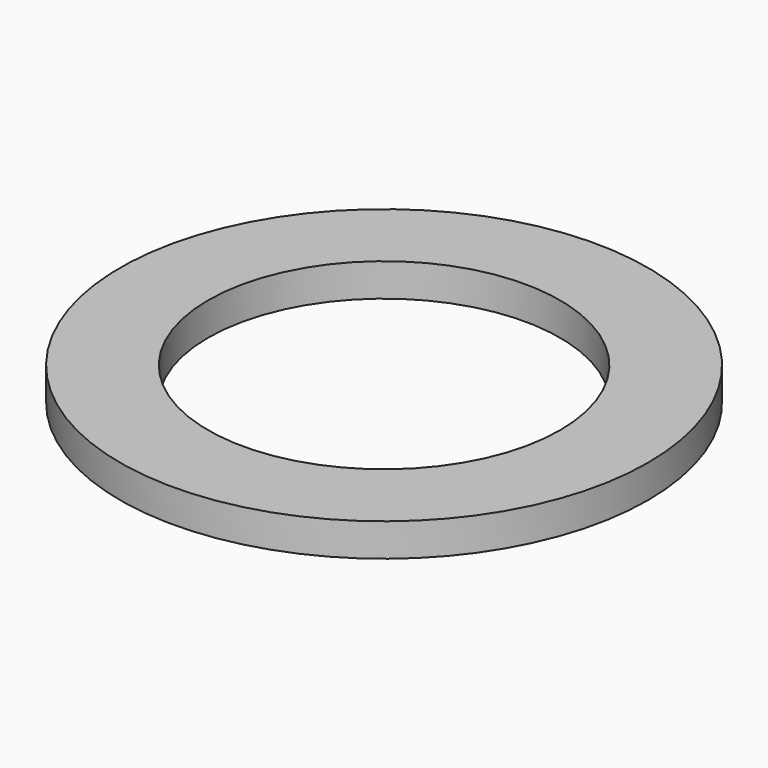
from build123d import *

# Parameters (mm, degrees)
SKETCH_R   = 12
SKETCH_R_2 = 8
PAD_DEPTH  = 1.5


with BuildPart() as part:
    # Sketch → Pad (new body)
    with BuildSketch(Plane.XY):
        Circle(SKETCH_R)
        Circle(SKETCH_R_2, mode=Mode.SUBTRACT)
    extrude(amount=PAD_DEPTH)


solid = part.part
